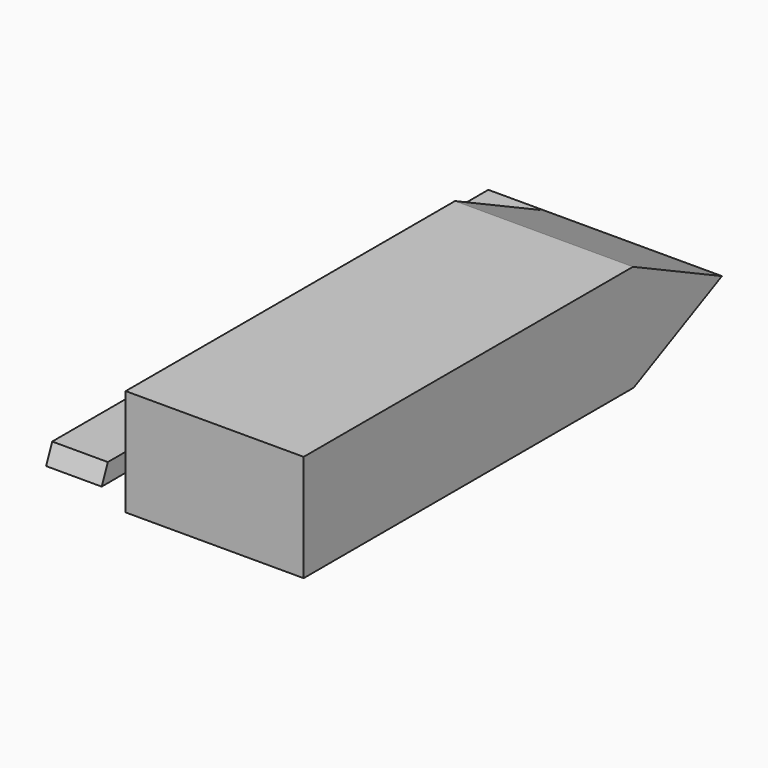
from build123d import *

# Parameters (mm, degrees)
F1_DEPTH = 50.8
F3_DEPTH = 15.875


with BuildPart() as f1:
    # F0 (on Right) → F1 (new body)
    with BuildSketch(Plane.YZ):
        Polygon((-78.445293, 22.478651), (-78.445293, 7.234405), (-78.445293, -8.011366), (39.290905, -8.011366), (70.780016, 7.234405), (39.026257, 22.478651), align=None)
    extrude(amount=F1_DEPTH)

    # F2 (on Right) → F3 (join)
    with BuildSketch(Plane.YZ):
        Polygon((71.895443, 2.343558), (70.779502, 7.235011), (-78.452043, 7.235011), (-84.809676, 7.235011), (-86.997397, 1.948911), align=None)
    extrude(amount=-F3_DEPTH)


solid = f1.part
